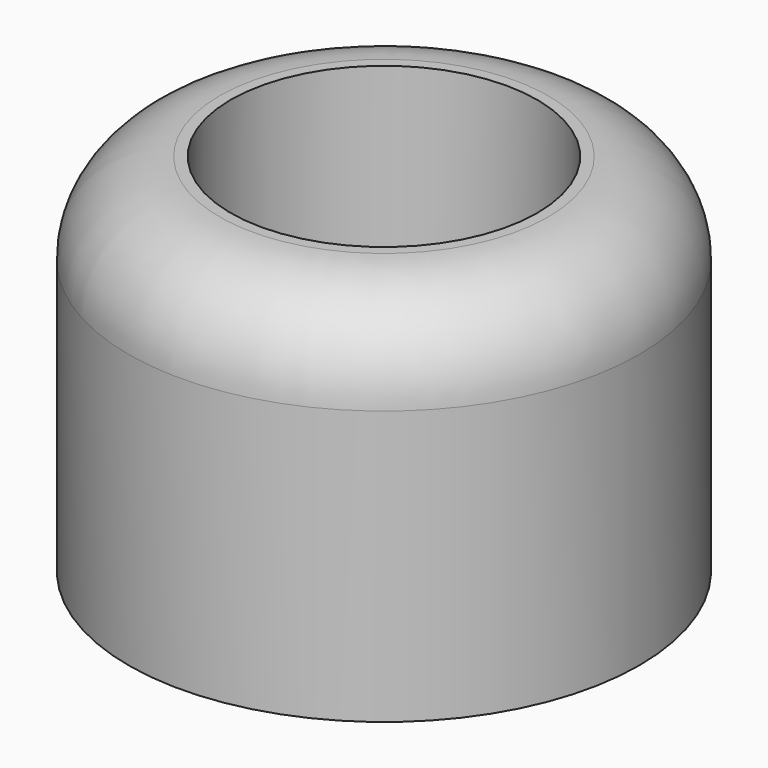
from build123d import *

# Parameters (mm, degrees)
F0_R     = 4.445
F0_R_2   = 2.667
F1_DEPTH = 6.35
F0_R_3   = 1.524
F2_DEPTH = 1.5875
F3_R     = 1.5875


with BuildPart() as f1:
    # F0 (on Top) → F1 (new body)
    with BuildSketch(Plane.XY):
        Circle(F0_R)
        Circle(F0_R_2, mode=Mode.SUBTRACT)
    extrude(amount=F1_DEPTH)

    # F0 (on Top) → F2 (join)
    with BuildSketch(Plane.XY):
        Circle(F0_R_2)
        Circle(F0_R_3, mode=Mode.SUBTRACT)
    extrude(amount=F2_DEPTH)

    # F3
    f3_edges = [f1.edges().sort_by_distance(p)[0] for p in [
        (-4.445, 0, 6.35),
    ]]
    fillet(f3_edges, radius=F3_R)


solid = f1.part
